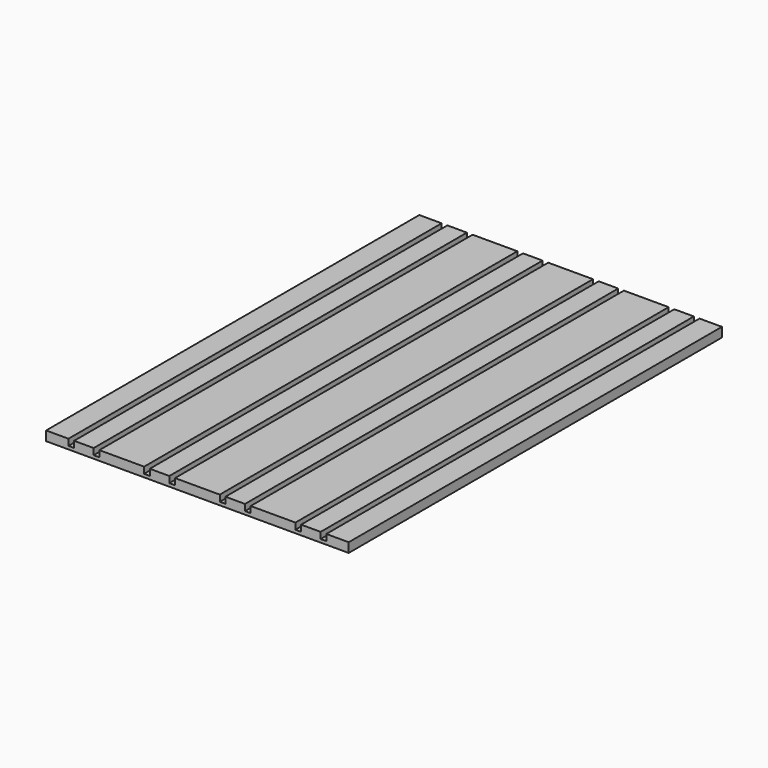
from build123d import *

# Parameters (mm, degrees)
F0_W     = 31
F0_H     = 740
F0_W_2   = 9
F0_W_3   = 71
F0_W_4   = 35.5
F1_DEPTH = 15
F2_DEPTH = 10


with BuildPart() as f1:
    # F0 (on Top) → F1 (new body)
    with BuildSketch(Plane.XY):
        with Locations((180, 0)):
            Rectangle(F0_W, F0_H)
        with Locations((160, 0)):
            Rectangle(F0_W_2, F0_H)
        with Locations((200, 0)):
            Rectangle(F0_W_2, F0_H)
        with Locations((120, 0)):
            Rectangle(F0_W_3, F0_H)
        with Locations((80, 0)):
            Rectangle(F0_W_2, F0_H)
        with Locations((60, 0)):
            Rectangle(F0_W, F0_H)
        with Locations((40, 0)):
            Rectangle(F0_W_2, F0_H)
        with Locations((222.25, 0)):
            Rectangle(F0_W_4, F0_H)
        with Locations((17.75, 0)):
            Rectangle(F0_W_4, F0_H)
    extrude(amount=-F1_DEPTH)

    # F0 (on Top) → F2 (cut)
    with BuildSketch(Plane.XY):
        with Locations((40, 0)):
            Rectangle(F0_W_2, F0_H)
        with Locations((80, 0)):
            Rectangle(F0_W_2, F0_H)
        with Locations((160, 0)):
            Rectangle(F0_W_2, F0_H)
        with Locations((200, 0)):
            Rectangle(F0_W_2, F0_H)
    extrude(amount=-F2_DEPTH, mode=Mode.SUBTRACT)

    # F3: F1 across face


with BuildPart() as f1_1:
    add(f1.part)
    add(f1.part.mirror(Plane(origin=(0, 0, -7.5), x_dir=(0, -1, 0), z_dir=(-1, 0, 0))))


solid = f1_1.part
